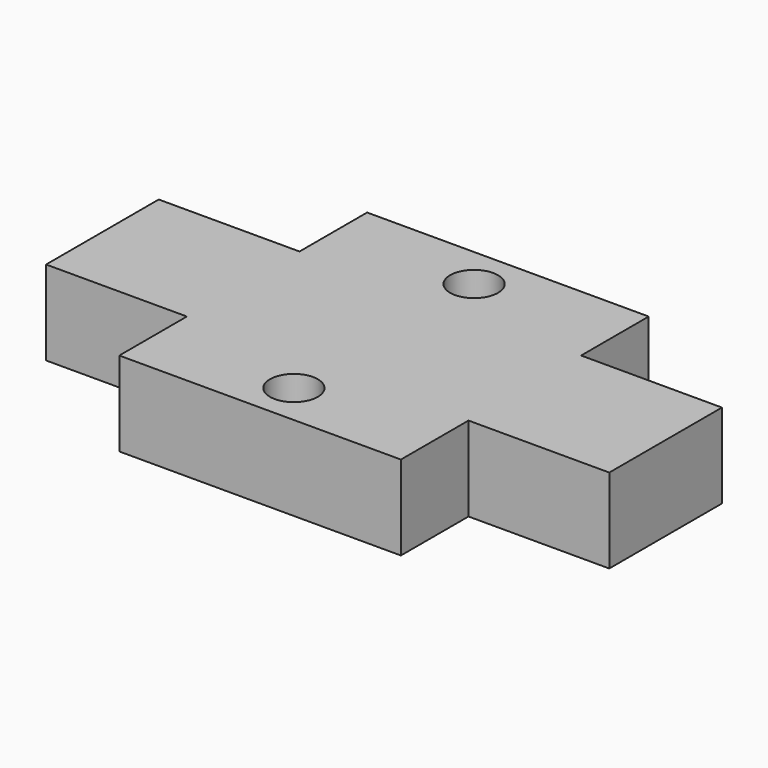
from build123d import *

# Parameters (mm, degrees)
PAD_DEPTH    = 6
SKETCH001_R  = 1.7
POCKET_DEPTH = 98.087915


with BuildPart() as part:
    # Sketch → Pad (new body)
    with BuildSketch(Plane.XY):
        Polygon((-20, -5), (-20, 5), (-10, 5), (-10, 11), (10, 11), (10, 5), (20, 5), (20, -5), (10, -5), (10, -11), (-10, -11), (-10, -5), align=None)
    extrude(amount=PAD_DEPTH)

    # Sketch001 (on Face14 of Pad) → Pocket (cut, through all)
    with BuildSketch(Plane.XY.offset(6)):
        with Locations((0, 8)):
            Circle(SKETCH001_R)
    pocket = extrude(amount=-POCKET_DEPTH, mode=Mode.SUBTRACT)

    # Mirrored: Pocket across Sketch001 H_Axis
    add(pocket.mirror(Plane(origin=(0, 0, 6), x_dir=(0, 0, 1), z_dir=(0, 1, 0))), mode=Mode.SUBTRACT)


solid = part.part
